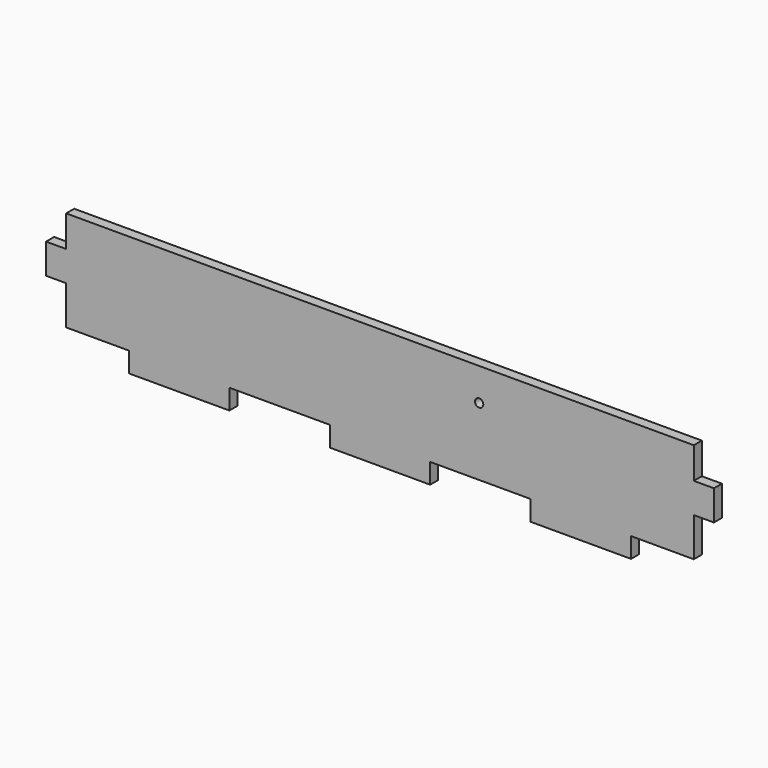
from build123d import *

# Parameters (mm, degrees)
SKETCH012_W     = 266
SKETCH012_H     = 48
PAD009_DEPTH    = 4
SKETCH022_W     = 40
SKETCH022_H     = 30
SKETCH022_W_2   = 30
SKETCH022_H_2   = 20
POCKET005_DEPTH = 4.001
SKETCH038_R     = 1.65
HOLE003_DEPTH   = 25


with BuildPart() as part:
    # Sketch012 (on DatumPlane) → Pad009 (new body)
    with BuildSketch(Plane(origin=(0, -79, -4), x_dir=(-1, 0, 0), z_dir=(0, 1, 0))):
        with Locations((0, 20)):
            Rectangle(SKETCH012_W, SKETCH012_H)
    extrude(amount=PAD009_DEPTH)

    # Sketch022 (on Face5 of Pad009) → Pocket005 (cut, through all)
    with BuildSketch(Plane(origin=(0, -79, -4), x_dir=(-1, 0, 0), z_dir=(0, -1, 0))):
        Polygon((-145, 26), (-100, 26), (-100, -4), (-125, -4), (-125, -19.5), (-155, -19.5), (-155, 0.5), (-145, 0.5), align=None)
        with Locations((-40, 11)):
            Rectangle(SKETCH022_W, SKETCH022_H)
        with Locations((40, 11)):
            Rectangle(SKETCH022_W, SKETCH022_H)
        Polygon((100, 26), (145, 26), (145, 0.5), (155, 0.5), (155, -19.5), (125, -19.5), (125, -4), (100, -4), align=None)
        with Locations((-140, -41.5)):
            Rectangle(SKETCH022_W_2, SKETCH022_H_2)
        with Locations((140, -41.5)):
            Rectangle(SKETCH022_W_2, SKETCH022_H_2)
    extrude(amount=-POCKET005_DEPTH, mode=Mode.SUBTRACT)

    # Sketch038 (on Face2 of Pocket005) → Hole003 (cut)
    with BuildSketch(Plane(origin=(0, -79, -4), x_dir=(-1, 0, 0), z_dir=(0, -1, 0))):
        with Locations((-39.5, -31)):
            Circle(SKETCH038_R)
    extrude(amount=-HOLE003_DEPTH, mode=Mode.SUBTRACT)


solid = part.part
